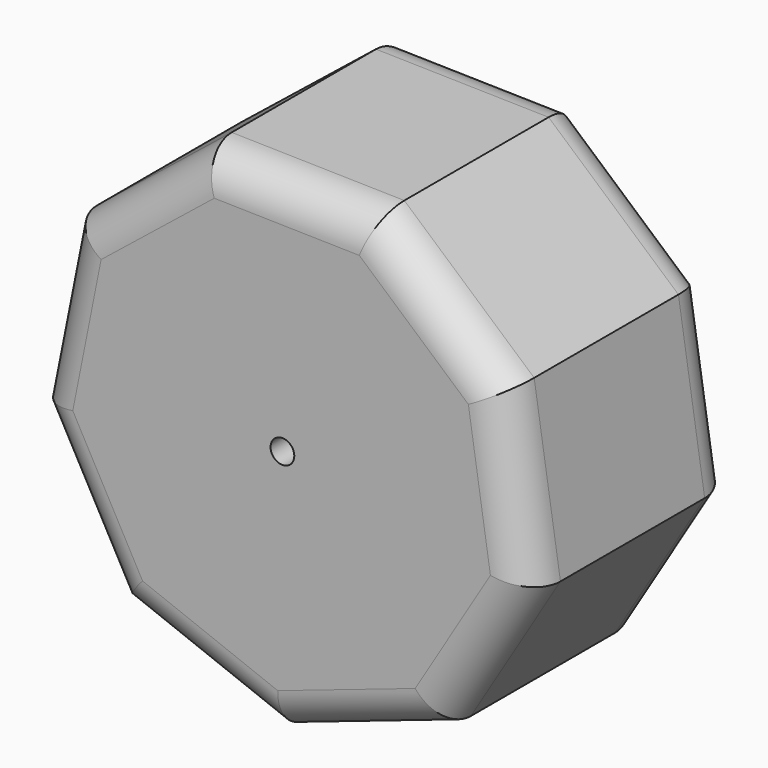
from build123d import *

# Parameters (mm, degrees)
F0_R     = 1.5875
F1_DEPTH = 34.29
F2_R     = 5.08


with BuildPart() as f1:
    # F0 (on Front) → F1 (new body)
    with BuildSketch(Plane.XZ):
        Polygon((29.623586, 16.249556), (12.24797, 31.489556), (-10.858607, 31.995243), (-28.884321, 17.53), (-33.39474, -5.137725), (-22.27939, -25.401451), (-0.739265, -33.779556), (21.14677, -26.351831), (33.137997, -6.593792), align=None)
        Circle(F0_R, mode=Mode.SUBTRACT)
    extrude(amount=-F1_DEPTH)

    # F2
    f2_edges = [f1.edges().sort_by_distance(p)[0] for p in [
        (-31.139531, 0, 6.196138),
        (-27.837065, 0, -15.269588),
        (-19.871464, 0, 24.762621),
        (0.694682, 0, 31.742399),
        (20.935778, 0, 23.869556),
        (31.380791, 0, 4.827882),
        (27.142383, 0, -16.472812),
        (10.203753, 0, -30.065694),
        (-11.509327, 0, -29.590503),
        (27.142383, 34.29, -16.472812),
        (31.380791, 34.29, 4.827882),
        (20.935778, 34.29, 23.869556),
        (0.694682, 34.29, 31.742399),
        (-19.871464, 34.29, 24.762621),
        (-31.139531, 34.29, 6.196138),
        (-27.837065, 34.29, -15.269588),
        (-11.509327, 34.29, -29.590503),
        (10.203753, 34.29, -30.065694),
    ]]
    fillet(f2_edges, radius=F2_R)


solid = f1.part
